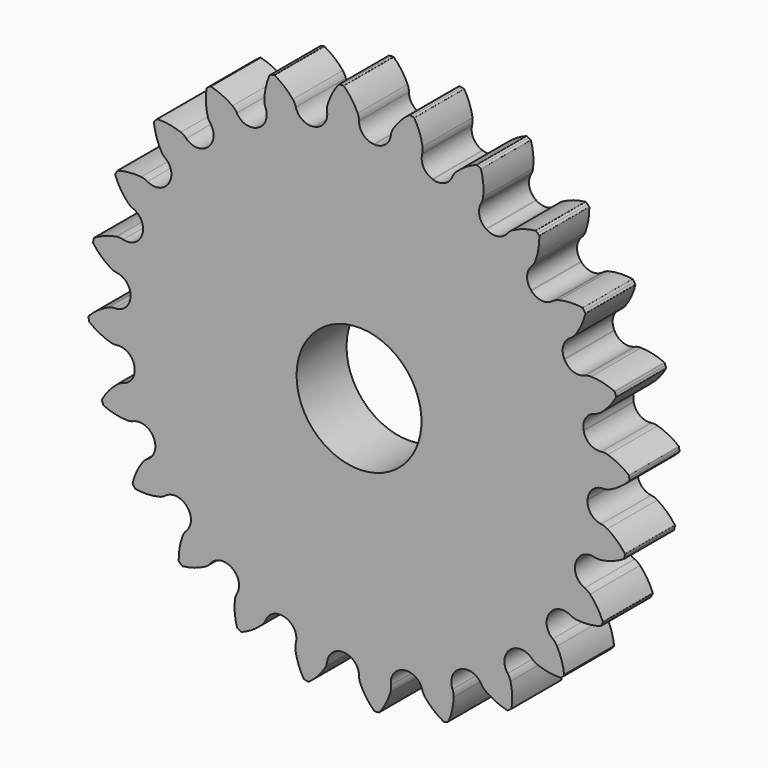
from build123d import *

# Parameters (mm, degrees)
F0_R      = 23.283333
F1_DEPTH  = 3.175
F1_FACE_R = 23.283333
F2_DEPTH  = 3.175
F4_DEPTH  = 6.35
F5_D      = 12.7


with BuildPart() as f1:
    # F0 (on Front) → F1 (new body)
    with BuildSketch(Plane.XZ):
        Circle(F0_R)
    extrude(amount=F1_DEPTH)

    # F1_face (on face) → F2 (join)
    with BuildSketch(Plane(origin=(0, 0, 0), x_dir=(1, 0, 0), z_dir=(0, 1, 0))):
        Circle(F1_FACE_R)
    extrude(amount=F2_DEPTH)

    # F3 (on face) → F4 (join)
    with BuildSketch(Plane.XZ.offset(3.175)):
        with BuildLine():
            ThreePointArc((0, 24.830274), (-0.035443, 25.163855), (-0.140191, 25.482541))
            ThreePointArc((-0.140191, 25.482541), (-0.740387, 26.533576), (-1.529099, 27.45164))
            ThreePointArc((-1.529099, 27.45164), (-1.553441, 27.467387), (-1.581903, 27.472902))
            Line((-1.581903, 27.472902), (-1.800669, 27.472902))
            Line((-1.800669, 27.472902), (-2.014987, 27.444686))
            ThreePointArc((-2.014987, 27.444686), (-2.044829, 27.434717), (-2.068782, 27.414319))
            ThreePointArc((-2.068782, 27.414319), (-2.729885, 26.402052), (-3.187148, 25.282833))
            ThreePointArc((-3.187148, 25.282833), (-3.249402, 24.953201), (-3.241001, 24.617848))
            Line((-3.241001, 24.617848), (-3.239675, 24.607777))
            ThreePointArc((-3.239675, 24.607777), (-3.523929, 23.474867), (-4.506343, 22.843084))
            ThreePointArc((-4.506343, 22.843084), (-3.861541, 22.960882), (-3.213679, 23.060483))
            ThreePointArc((-3.213679, 23.060483), (-0.868194, 23.267141), (1.48617, 23.235854))
            ThreePointArc((1.48617, 23.235854), (0.429697, 23.734001), (0, 24.820117))
            Line((0, 24.820117), (0, 24.830274))
        make_face()
        with BuildLine():
            ThreePointArc((1.559432, 23.231052), (1.522803, 23.233482), (1.48617, 23.235854))
            ThreePointArc((1.48617, 23.235854), (-0.868194, 23.267141), (-3.213679, 23.060483))
            ThreePointArc((-3.213679, 23.060483), (-3.861541, 22.960882), (-4.506343, 22.843084))
            ThreePointArc((-4.506343, 22.843084), (-4.542353, 22.835951), (-4.578351, 22.828761))
            ThreePointArc((-4.578351, 22.828761), (-6.86059, 22.249627), (-9.072667, 21.442955))
            ThreePointArc((-9.072667, 21.442955), (-9.672676, 21.179069), (-10.265019, 20.898397))
            ThreePointArc((-10.265019, 20.898397), (-10.297955, 20.882187), (-10.330866, 20.865925))
            ThreePointArc((-10.330866, 20.865925), (-12.385448, 19.715838), (-14.313369, 18.364125))
            ThreePointArc((-14.313369, 18.364125), (-14.824634, 17.953937), (-15.32415, 17.529519))
            ThreePointArc((-15.32415, 17.529519), (-15.351768, 17.505337), (-15.379349, 17.481111))
            ThreePointArc((-15.379349, 17.481111), (-17.066259, 15.838448), (-18.578638, 14.03381))
            ThreePointArc((-18.578638, 14.03381), (-18.966317, 13.505274), (-19.338965, 12.966034))
            ThreePointArc((-19.338965, 12.966034), (-19.359384, 12.935527), (-19.379755, 12.904988))
            ThreePointArc((-19.379755, 12.904988), (-20.584032, 10.881693), (-21.577803, 8.747114))
            ThreePointArc((-21.577803, 8.747114), (-21.815478, 8.136248), (-22.035863, 7.518934))
            ThreePointArc((-22.035863, 7.518934), (-22.04769, 7.484182), (-22.059462, 7.449412))
            ThreePointArc((-22.059462, 7.449412), (-22.699037, 5.183369), (-23.106477, 2.864317))
            ThreePointArc((-23.106477, 2.864317), (-23.177949, 2.212751), (-23.231052, 1.559432))
            ThreePointArc((-23.231052, 1.559432), (-23.233482, 1.522803), (-23.235854, 1.48617))
            ThreePointArc((-23.235854, 1.48617), (-23.267141, -0.868194), (-23.060483, -3.213679))
            ThreePointArc((-23.060483, -3.213679), (-22.960882, -3.861541), (-22.843084, -4.506343))
            ThreePointArc((-22.843084, -4.506343), (-22.835951, -4.542353), (-22.828761, -4.578351))
            ThreePointArc((-22.828761, -4.578351), (-22.249627, -6.86059), (-21.442955, -9.072667))
            ThreePointArc((-21.442955, -9.072667), (-21.179069, -9.672676), (-20.898397, -10.265019))
            ThreePointArc((-20.898397, -10.265019), (-20.882187, -10.297955), (-20.865925, -10.330866))
            ThreePointArc((-20.865925, -10.330866), (-19.715838, -12.385448), (-18.364125, -14.313369))
            ThreePointArc((-18.364125, -14.313369), (-17.953937, -14.824634), (-17.529519, -15.32415))
            ThreePointArc((-17.529519, -15.32415), (-17.505337, -15.351768), (-17.481111, -15.379349))
            ThreePointArc((-17.481111, -15.379349), (-15.838448, -17.066259), (-14.03381, -18.578638))
            ThreePointArc((-14.03381, -18.578638), (-13.505274, -18.966317), (-12.966034, -19.338965))
            ThreePointArc((-12.966034, -19.338965), (-12.935527, -19.359384), (-12.904988, -19.379755))
            ThreePointArc((-12.904988, -19.379755), (-10.881693, -20.584032), (-8.747114, -21.577803))
            ThreePointArc((-8.747114, -21.577803), (-8.136248, -21.815478), (-7.518934, -22.035863))
            ThreePointArc((-7.518934, -22.035863), (-7.484182, -22.04769), (-7.449412, -22.059462))
            ThreePointArc((-7.449412, -22.059462), (-5.183369, -22.699037), (-2.864317, -23.106477))
            ThreePointArc((-2.864317, -23.106477), (-2.212751, -23.177949), (-1.559432, -23.231052))
            ThreePointArc((-1.559432, -23.231052), (-1.522803, -23.233482), (-1.48617, -23.235854))
            ThreePointArc((-1.48617, -23.235854), (0.868194, -23.267141), (3.213679, -23.060483))
            ThreePointArc((3.213679, -23.060483), (3.861541, -22.960882), (4.506343, -22.843084))
            ThreePointArc((4.506343, -22.843084), (4.542353, -22.835951), (4.578351, -22.828761))
            ThreePointArc((4.578351, -22.828761), (6.86059, -22.249627), (9.072667, -21.442955))
            ThreePointArc((9.072667, -21.442955), (9.672676, -21.179069), (10.265019, -20.898397))
            ThreePointArc((10.265019, -20.898397), (10.297955, -20.882187), (10.330866, -20.865925))
            ThreePointArc((10.330866, -20.865925), (12.385448, -19.715838), (14.313369, -18.364125))
            ThreePointArc((14.313369, -18.364125), (14.824634, -17.953937), (15.32415, -17.529519))
            ThreePointArc((15.32415, -17.529519), (15.351768, -17.505337), (15.379349, -17.481111))
            ThreePointArc((15.379349, -17.481111), (17.066259, -15.838448), (18.578638, -14.03381))
            ThreePointArc((18.578638, -14.03381), (18.966317, -13.505274), (19.338965, -12.966034))
            ThreePointArc((19.338965, -12.966034), (19.359384, -12.935527), (19.379755, -12.904988))
            ThreePointArc((19.379755, -12.904988), (20.584032, -10.881693), (21.577803, -8.747114))
            ThreePointArc((21.577803, -8.747114), (21.815478, -8.136248), (22.035863, -7.518934))
            ThreePointArc((22.035863, -7.518934), (22.04769, -7.484182), (22.059462, -7.449412))
            ThreePointArc((22.059462, -7.449412), (22.699037, -5.183369), (23.106477, -2.864317))
            ThreePointArc((23.106477, -2.864317), (23.177949, -2.212751), (23.231052, -1.559432))
            ThreePointArc((23.231052, -1.559432), (23.233482, -1.522803), (23.235854, -1.48617))
            ThreePointArc((23.235854, -1.48617), (23.27146, -0.743464), (23.283333, 0))
            ThreePointArc((23.283333, 0), (23.227554, 1.610698), (23.060483, 3.213679))
            ThreePointArc((23.060483, 3.213679), (22.960882, 3.861541), (22.843084, 4.506343))
            ThreePointArc((22.843084, 4.506343), (22.835951, 4.542353), (22.828761, 4.578351))
            ThreePointArc((22.828761, 4.578351), (22.249627, 6.86059), (21.442955, 9.072667))
            ThreePointArc((21.442955, 9.072667), (21.179069, 9.672676), (20.898397, 10.265019))
            ThreePointArc((20.898397, 10.265019), (20.882187, 10.297955), (20.865925, 10.330866))
            ThreePointArc((20.865925, 10.330866), (19.715838, 12.385448), (18.364125, 14.313369))
            ThreePointArc((18.364125, 14.313369), (17.953937, 14.824634), (17.529519, 15.32415))
            ThreePointArc((17.529519, 15.32415), (17.505337, 15.351768), (17.481111, 15.379349))
            ThreePointArc((17.481111, 15.379349), (15.838448, 17.066259), (14.03381, 18.578638))
            ThreePointArc((14.03381, 18.578638), (13.505274, 18.966317), (12.966034, 19.338965))
            ThreePointArc((12.966034, 19.338965), (12.935527, 19.359384), (12.904988, 19.379755))
            ThreePointArc((12.904988, 19.379755), (10.881693, 20.584032), (8.747114, 21.577803))
            ThreePointArc((8.747114, 21.577803), (8.136248, 21.815478), (7.518934, 22.035863))
            ThreePointArc((7.518934, 22.035863), (7.484182, 22.04769), (7.449412, 22.059462))
            ThreePointArc((7.449412, 22.059462), (5.183369, 22.699037), (2.864317, 23.106477))
            ThreePointArc((2.864317, 23.106477), (2.212751, 23.177949), (1.559432, 23.231052))
        make_face()
        with BuildLine():
            ThreePointArc((3.239675, 24.607777), (2.671888, 23.58704), (1.559432, 23.231052))
            ThreePointArc((1.559432, 23.231052), (2.212751, 23.177949), (2.864317, 23.106477))
            ThreePointArc((2.864317, 23.106477), (5.183369, 22.699037), (7.449412, 22.059462))
            ThreePointArc((7.449412, 22.059462), (6.557867, 22.814071), (6.423919, 23.974392))
            Line((6.423919, 23.974392), (6.426548, 23.984203))
            ThreePointArc((6.426548, 23.984203), (6.478649, 24.315591), (6.459953, 24.650529))
            ThreePointArc((6.459953, 24.650529), (6.152236, 25.821092), (5.62801, 26.912008))
            ThreePointArc((5.62801, 26.912008), (5.608574, 26.933518), (5.582509, 26.946212))
            Line((5.582509, 26.946212), (5.371197, 27.002833))
            Line((5.371197, 27.002833), (5.156879, 27.031048))
            ThreePointArc((5.156879, 27.031048), (5.125475, 27.029143), (5.097058, 27.015639))
            ThreePointArc((5.097058, 27.015639), (4.196487, 26.208971), (3.465131, 25.246236))
            ThreePointArc((3.465131, 25.246236), (3.319682, 24.943949), (3.241001, 24.617848))
            Line((3.241001, 24.617848), (3.239675, 24.607777))
        make_face()
        with BuildLine():
            ThreePointArc((-9.072667, 21.442955), (-6.86059, 22.249627), (-4.578351, 22.828761))
            ThreePointArc((-4.578351, 22.828761), (-5.727756, 23.036498), (-6.423919, 23.974392))
            Line((-6.423919, 23.974392), (-6.426548, 23.984203))
            ThreePointArc((-6.426548, 23.984203), (-6.547121, 24.297244), (-6.730781, 24.577961))
            ThreePointArc((-6.730781, 24.577961), (-7.582553, 25.43784), (-8.582004, 26.120488))
            ThreePointArc((-8.582004, 26.120488), (-8.609592, 26.129398), (-8.638512, 26.127358))
            Line((-8.638512, 26.127358), (-8.849823, 26.070738))
            Line((-8.849823, 26.070738), (-9.049536, 25.988014))
            ThreePointArc((-9.049536, 25.988014), (-9.07578, 25.970662), (-9.093638, 25.944759))
            ThreePointArc((-9.093638, 25.944759), (-9.470221, 24.795878), (-9.622227, 23.596447))
            ThreePointArc((-9.622227, 23.596447), (-9.597045, 23.261935), (-9.502135, 22.940182))
            Line((-9.502135, 22.940182), (-9.498247, 22.930798))
            ThreePointArc((-9.498247, 22.930798), (-9.479597, 21.76292), (-10.265019, 20.898397))
            ThreePointArc((-10.265019, 20.898397), (-9.672676, 21.179069), (-9.072667, 21.442955))
        make_face()
        with BuildLine():
            ThreePointArc((9.498247, 22.930798), (8.685621, 22.091795), (7.518934, 22.035863))
            ThreePointArc((7.518934, 22.035863), (8.136248, 21.815478), (8.747114, 21.577803))
            ThreePointArc((8.747114, 21.577803), (10.881693, 20.584032), (12.904988, 19.379755))
            ThreePointArc((12.904988, 19.379755), (12.239129, 20.339399), (12.410058, 21.494852))
            Line((12.410058, 21.494852), (12.415137, 21.503648))
            ThreePointArc((12.415137, 21.503648), (12.551233, 21.81026), (12.619862, 22.138623))
            ThreePointArc((12.619862, 22.138623), (12.625594, 23.348944), (12.401581, 24.538367))
            ThreePointArc((12.401581, 24.538367), (12.388373, 24.564175), (12.366482, 24.583182))
            Line((12.366482, 24.583182), (12.177026, 24.692565))
            Line((12.177026, 24.692565), (11.977313, 24.775289))
            ThreePointArc((11.977313, 24.775289), (11.946485, 24.781577), (11.915541, 24.775888))
            ThreePointArc((11.915541, 24.775888), (10.836876, 24.229791), (9.881266, 23.48915))
            ThreePointArc((9.881266, 23.48915), (9.662536, 23.234807), (9.502135, 22.940182))
            Line((9.502135, 22.940182), (9.498247, 22.930798))
        make_face()
        with BuildLine():
            ThreePointArc((-14.313369, 18.364125), (-12.385448, 19.715838), (-10.330866, 20.865925))
            ThreePointArc((-10.330866, 20.865925), (-11.494872, 20.769096), (-12.410058, 21.494852))
            Line((-12.410058, 21.494852), (-12.415137, 21.503648))
            ThreePointArc((-12.415137, 21.503648), (-12.612623, 21.774816), (-12.862679, 21.998433))
            ThreePointArc((-12.862679, 21.998433), (-13.907982, 22.608557), (-15.050059, 23.009268))
            ThreePointArc((-15.050059, 23.009268), (-15.079013, 23.010734), (-15.106419, 23.001279))
            Line((-15.106419, 23.001279), (-15.295876, 22.891896))
            Line((-15.295876, 22.891896), (-15.467373, 22.760302))
            ThreePointArc((-15.467373, 22.760302), (-15.488232, 22.736748), (-15.498778, 22.707106))
            ThreePointArc((-15.498778, 22.707106), (-15.565176, 21.499906), (-15.401567, 20.302002))
            ThreePointArc((-15.401567, 20.302002), (-15.290665, 19.985405), (-15.115713, 19.699181))
            Line((-15.115713, 19.699181), (-15.10953, 19.691123))
            ThreePointArc((-15.10953, 19.691123), (-14.789246, 18.567866), (-15.32415, 17.529519))
            ThreePointArc((-15.32415, 17.529519), (-14.824634, 17.953937), (-14.313369, 18.364125))
        make_face()
        with BuildLine():
            ThreePointArc((15.10953, 19.691123), (14.107443, 19.091032), (12.966034, 19.338965))
            ThreePointArc((12.966034, 19.338965), (13.505274, 18.966317), (14.03381, 18.578638))
            ThreePointArc((14.03381, 18.578638), (15.838448, 17.066259), (17.481111, 15.379349))
            ThreePointArc((17.481111, 15.379349), (17.086314, 16.478632), (17.550473, 17.550473))
            Line((17.550473, 17.550473), (17.557655, 17.557655))
            ThreePointArc((17.557655, 17.557655), (17.768471, 17.818595), (17.919748, 18.118008))
            ThreePointArc((17.919748, 18.118008), (18.238539, 19.285604), (18.330004, 20.492477))
            ThreePointArc((18.330004, 20.492477), (18.323926, 20.520824), (18.3077, 20.54485))
            Line((18.3077, 20.54485), (18.15301, 20.69954))
            Line((18.15301, 20.69954), (17.981512, 20.831135))
            ThreePointArc((17.981512, 20.831135), (17.953363, 20.845187), (17.922001, 20.847701))
            ThreePointArc((17.922001, 20.847701), (16.73875, 20.599391), (15.624009, 20.131316))
            ThreePointArc((15.624009, 20.131316), (15.346904, 19.942252), (15.115713, 19.699181))
            Line((15.115713, 19.699181), (15.10953, 19.691123))
        make_face()
        with BuildLine():
            ThreePointArc((-18.578638, 14.03381), (-17.066259, 15.838448), (-15.379349, 17.481111))
            ThreePointArc((-15.379349, 17.481111), (-16.478632, 17.086314), (-17.550473, 17.550473))
            Line((-17.550473, 17.550473), (-17.557655, 17.557655))
            ThreePointArc((-17.557655, 17.557655), (-17.818595, 17.768471), (-18.118008, 17.919748))
            ThreePointArc((-18.118008, 17.919748), (-19.285604, 18.238539), (-20.492477, 18.330004))
            ThreePointArc((-20.492477, 18.330004), (-20.520824, 18.323926), (-20.54485, 18.3077))
            Line((-20.54485, 18.3077), (-20.69954, 18.15301))
            Line((-20.69954, 18.15301), (-20.831135, 17.981512))
            ThreePointArc((-20.831135, 17.981512), (-20.845187, 17.953363), (-20.847701, 17.922001))
            ThreePointArc((-20.847701, 17.922001), (-20.599391, 16.73875), (-20.131316, 15.624009))
            ThreePointArc((-20.131316, 15.624009), (-19.942252, 15.346904), (-19.699181, 15.115713))
            Line((-19.699181, 15.115713), (-19.691123, 15.10953))
            ThreePointArc((-19.691123, 15.10953), (-19.091032, 14.107443), (-19.338965, 12.966034))
            ThreePointArc((-19.338965, 12.966034), (-18.966317, 13.505274), (-18.578638, 14.03381))
        make_face()
        with BuildLine():
            ThreePointArc((19.691123, 15.10953), (18.567866, 14.789246), (17.529519, 15.32415))
            ThreePointArc((17.529519, 15.32415), (17.953937, 14.824634), (18.364125, 14.313369))
            ThreePointArc((18.364125, 14.313369), (19.715838, 12.385448), (20.865925, 10.330866))
            ThreePointArc((20.865925, 10.330866), (20.769096, 11.494872), (21.494852, 12.410058))
            Line((21.494852, 12.410058), (21.503648, 12.415137))
            ThreePointArc((21.503648, 12.415137), (21.774816, 12.612623), (21.998433, 12.862679))
            ThreePointArc((21.998433, 12.862679), (22.608557, 13.907982), (23.009268, 15.050059))
            ThreePointArc((23.009268, 15.050059), (23.010734, 15.079013), (23.001279, 15.106419))
            Line((23.001279, 15.106419), (22.891896, 15.295876))
            Line((22.891896, 15.295876), (22.760302, 15.467373))
            ThreePointArc((22.760302, 15.467373), (22.736748, 15.488232), (22.707106, 15.498778))
            ThreePointArc((22.707106, 15.498778), (21.499906, 15.565176), (20.302002, 15.401567))
            ThreePointArc((20.302002, 15.401567), (19.985405, 15.290665), (19.699181, 15.115713))
            Line((19.699181, 15.115713), (19.691123, 15.10953))
        make_face()
        with BuildLine():
            ThreePointArc((-21.577803, 8.747114), (-20.584032, 10.881693), (-19.379755, 12.904988))
            ThreePointArc((-19.379755, 12.904988), (-20.339399, 12.239129), (-21.494852, 12.410058))
            Line((-21.494852, 12.410058), (-21.503648, 12.415137))
            ThreePointArc((-21.503648, 12.415137), (-21.81026, 12.551233), (-22.138623, 12.619862))
            ThreePointArc((-22.138623, 12.619862), (-23.348944, 12.625594), (-24.538367, 12.401581))
            ThreePointArc((-24.538367, 12.401581), (-24.564175, 12.388373), (-24.583182, 12.366482))
            Line((-24.583182, 12.366482), (-24.692565, 12.177026))
            Line((-24.692565, 12.177026), (-24.775289, 11.977313))
            ThreePointArc((-24.775289, 11.977313), (-24.781577, 11.946485), (-24.775888, 11.915541))
            ThreePointArc((-24.775888, 11.915541), (-24.229791, 10.836876), (-23.48915, 9.881266))
            ThreePointArc((-23.48915, 9.881266), (-23.234807, 9.662536), (-22.940182, 9.502135))
            Line((-22.940182, 9.502135), (-22.930798, 9.498247))
            ThreePointArc((-22.930798, 9.498247), (-22.091795, 8.685621), (-22.035863, 7.518934))
            ThreePointArc((-22.035863, 7.518934), (-21.815478, 8.136248), (-21.577803, 8.747114))
        make_face()
        with BuildLine():
            ThreePointArc((22.930798, 9.498247), (21.76292, 9.479597), (20.898397, 10.265019))
            ThreePointArc((20.898397, 10.265019), (21.179069, 9.672676), (21.442955, 9.072667))
            ThreePointArc((21.442955, 9.072667), (22.249627, 6.86059), (22.828761, 4.578351))
            ThreePointArc((22.828761, 4.578351), (23.036498, 5.727756), (23.974392, 6.423919))
            Line((23.974392, 6.423919), (23.984203, 6.426548))
            ThreePointArc((23.984203, 6.426548), (24.297244, 6.547121), (24.577961, 6.730781))
            ThreePointArc((24.577961, 6.730781), (25.43784, 7.582553), (26.120488, 8.582004))
            ThreePointArc((26.120488, 8.582004), (26.129398, 8.609592), (26.127358, 8.638512))
            Line((26.127358, 8.638512), (26.070738, 8.849823))
            Line((26.070738, 8.849823), (25.988014, 9.049536))
            ThreePointArc((25.988014, 9.049536), (25.970662, 9.07578), (25.944759, 9.093638))
            ThreePointArc((25.944759, 9.093638), (24.795878, 9.470221), (23.596447, 9.622227))
            ThreePointArc((23.596447, 9.622227), (23.261935, 9.597045), (22.940182, 9.502135))
            Line((22.940182, 9.502135), (22.930798, 9.498247))
        make_face()
        with BuildLine():
            ThreePointArc((-23.106477, 2.864317), (-22.699037, 5.183369), (-22.059462, 7.449412))
            ThreePointArc((-22.059462, 7.449412), (-22.814071, 6.557867), (-23.974392, 6.423919))
            Line((-23.974392, 6.423919), (-23.984203, 6.426548))
            ThreePointArc((-23.984203, 6.426548), (-24.315591, 6.478649), (-24.650529, 6.459953))
            ThreePointArc((-24.650529, 6.459953), (-25.821092, 6.152236), (-26.912008, 5.62801))
            ThreePointArc((-26.912008, 5.62801), (-26.933518, 5.608574), (-26.946212, 5.582509))
            Line((-26.946212, 5.582509), (-27.002833, 5.371197))
            Line((-27.002833, 5.371197), (-27.031048, 5.156879))
            ThreePointArc((-27.031048, 5.156879), (-27.029143, 5.125475), (-27.015639, 5.097058))
            ThreePointArc((-27.015639, 5.097058), (-26.208971, 4.196487), (-25.246236, 3.465131))
            ThreePointArc((-25.246236, 3.465131), (-24.943949, 3.319682), (-24.617848, 3.241001))
            Line((-24.617848, 3.241001), (-24.607777, 3.239675))
            ThreePointArc((-24.607777, 3.239675), (-23.58704, 2.671888), (-23.231052, 1.559432))
            ThreePointArc((-23.231052, 1.559432), (-23.177949, 2.212751), (-23.106477, 2.864317))
        make_face()
        with BuildLine():
            ThreePointArc((24.607777, 3.239675), (23.474867, 3.523929), (22.843084, 4.506343))
            ThreePointArc((22.843084, 4.506343), (22.960882, 3.861541), (23.060483, 3.213679))
            ThreePointArc((23.060483, 3.213679), (23.227554, 1.610698), (23.283333, 0))
            ThreePointArc((23.283333, 0), (23.27146, -0.743464), (23.235854, -1.48617))
            ThreePointArc((23.235854, -1.48617), (23.734001, -0.429697), (24.820117, 0))
            Line((24.820117, 0), (24.830274, 0))
            ThreePointArc((24.830274, 0), (25.163855, 0.035443), (25.482541, 0.140191))
            ThreePointArc((25.482541, 0.140191), (26.533576, 0.740387), (27.45164, 1.529099))
            ThreePointArc((27.45164, 1.529099), (27.467387, 1.553441), (27.472902, 1.581903))
            Line((27.472902, 1.581903), (27.472902, 1.800669))
            Line((27.472902, 1.800669), (27.444686, 2.014987))
            ThreePointArc((27.444686, 2.014987), (27.434717, 2.044829), (27.414319, 2.068782))
            ThreePointArc((27.414319, 2.068782), (26.402052, 2.729885), (25.282833, 3.187148))
            ThreePointArc((25.282833, 3.187148), (24.953201, 3.249402), (24.617848, 3.241001))
            Line((24.617848, 3.241001), (24.607777, 3.239675))
        make_face()
        with BuildLine():
            ThreePointArc((-23.060483, -3.213679), (-23.267141, -0.868194), (-23.235854, 1.48617))
            ThreePointArc((-23.235854, 1.48617), (-23.734001, 0.429697), (-24.820117, 0))
            Line((-24.820117, 0), (-24.830274, 0))
            ThreePointArc((-24.830274, 0), (-25.163855, -0.035443), (-25.482541, -0.140191))
            ThreePointArc((-25.482541, -0.140191), (-26.533576, -0.740387), (-27.45164, -1.529099))
            ThreePointArc((-27.45164, -1.529099), (-27.467387, -1.553441), (-27.472902, -1.581903))
            Line((-27.472902, -1.581903), (-27.472902, -1.800669))
            Line((-27.472902, -1.800669), (-27.444686, -2.014987))
            ThreePointArc((-27.444686, -2.014987), (-27.434717, -2.044829), (-27.414319, -2.068782))
            ThreePointArc((-27.414319, -2.068782), (-26.402052, -2.729885), (-25.282833, -3.187148))
            ThreePointArc((-25.282833, -3.187148), (-24.953201, -3.249402), (-24.617848, -3.241001))
            Line((-24.617848, -3.241001), (-24.607777, -3.239675))
            ThreePointArc((-24.607777, -3.239675), (-23.474867, -3.523929), (-22.843084, -4.506343))
            ThreePointArc((-22.843084, -4.506343), (-22.960882, -3.861541), (-23.060483, -3.213679))
        make_face()
        with BuildLine():
            ThreePointArc((24.607777, -3.239675), (23.58704, -2.671888), (23.231052, -1.559432))
            ThreePointArc((23.231052, -1.559432), (23.177949, -2.212751), (23.106477, -2.864317))
            ThreePointArc((23.106477, -2.864317), (22.699037, -5.183369), (22.059462, -7.449412))
            ThreePointArc((22.059462, -7.449412), (22.814071, -6.557867), (23.974392, -6.423919))
            Line((23.974392, -6.423919), (23.984203, -6.426548))
            ThreePointArc((23.984203, -6.426548), (24.315591, -6.478649), (24.650529, -6.459953))
            ThreePointArc((24.650529, -6.459953), (25.821092, -6.152236), (26.912008, -5.62801))
            ThreePointArc((26.912008, -5.62801), (26.933518, -5.608574), (26.946212, -5.582509))
            Line((26.946212, -5.582509), (27.002833, -5.371197))
            Line((27.002833, -5.371197), (27.031048, -5.156879))
            ThreePointArc((27.031048, -5.156879), (27.029143, -5.125475), (27.015639, -5.097058))
            ThreePointArc((27.015639, -5.097058), (26.208971, -4.196487), (25.246236, -3.465131))
            ThreePointArc((25.246236, -3.465131), (24.943949, -3.319682), (24.617848, -3.241001))
            Line((24.617848, -3.241001), (24.607777, -3.239675))
        make_face()
        with BuildLine():
            ThreePointArc((-21.442955, -9.072667), (-22.249627, -6.86059), (-22.828761, -4.578351))
            ThreePointArc((-22.828761, -4.578351), (-23.036498, -5.727756), (-23.974392, -6.423919))
            Line((-23.974392, -6.423919), (-23.984203, -6.426548))
            ThreePointArc((-23.984203, -6.426548), (-24.297244, -6.547121), (-24.577961, -6.730781))
            ThreePointArc((-24.577961, -6.730781), (-25.43784, -7.582553), (-26.120488, -8.582004))
            ThreePointArc((-26.120488, -8.582004), (-26.129398, -8.609592), (-26.127358, -8.638512))
            Line((-26.127358, -8.638512), (-26.070738, -8.849823))
            Line((-26.070738, -8.849823), (-25.988014, -9.049536))
            ThreePointArc((-25.988014, -9.049536), (-25.970662, -9.07578), (-25.944759, -9.093638))
            ThreePointArc((-25.944759, -9.093638), (-24.795878, -9.470221), (-23.596447, -9.622227))
            ThreePointArc((-23.596447, -9.622227), (-23.261935, -9.597045), (-22.940182, -9.502135))
            Line((-22.940182, -9.502135), (-22.930798, -9.498247))
            ThreePointArc((-22.930798, -9.498247), (-21.76292, -9.479597), (-20.898397, -10.265019))
            ThreePointArc((-20.898397, -10.265019), (-21.179069, -9.672676), (-21.442955, -9.072667))
        make_face()
        with BuildLine():
            ThreePointArc((22.930798, -9.498247), (22.091795, -8.685621), (22.035863, -7.518934))
            ThreePointArc((22.035863, -7.518934), (21.815478, -8.136248), (21.577803, -8.747114))
            ThreePointArc((21.577803, -8.747114), (20.584032, -10.881693), (19.379755, -12.904988))
            ThreePointArc((19.379755, -12.904988), (20.339399, -12.239129), (21.494852, -12.410058))
            Line((21.494852, -12.410058), (21.503648, -12.415137))
            ThreePointArc((21.503648, -12.415137), (21.81026, -12.551233), (22.138623, -12.619862))
            ThreePointArc((22.138623, -12.619862), (23.348944, -12.625594), (24.538367, -12.401581))
            ThreePointArc((24.538367, -12.401581), (24.564175, -12.388373), (24.583182, -12.366482))
            Line((24.583182, -12.366482), (24.692565, -12.177026))
            Line((24.692565, -12.177026), (24.775289, -11.977313))
            ThreePointArc((24.775289, -11.977313), (24.781577, -11.946485), (24.775888, -11.915541))
            ThreePointArc((24.775888, -11.915541), (24.229791, -10.836876), (23.48915, -9.881266))
            ThreePointArc((23.48915, -9.881266), (23.234807, -9.662536), (22.940182, -9.502135))
            Line((22.940182, -9.502135), (22.930798, -9.498247))
        make_face()
        with BuildLine():
            ThreePointArc((-18.364125, -14.313369), (-19.715838, -12.385448), (-20.865925, -10.330866))
            ThreePointArc((-20.865925, -10.330866), (-20.769096, -11.494872), (-21.494852, -12.410058))
            Line((-21.494852, -12.410058), (-21.503648, -12.415137))
            ThreePointArc((-21.503648, -12.415137), (-21.774816, -12.612623), (-21.998433, -12.862679))
            ThreePointArc((-21.998433, -12.862679), (-22.608557, -13.907982), (-23.009268, -15.050059))
            ThreePointArc((-23.009268, -15.050059), (-23.010734, -15.079013), (-23.001279, -15.106419))
            Line((-23.001279, -15.106419), (-22.891896, -15.295876))
            Line((-22.891896, -15.295876), (-22.760302, -15.467373))
            ThreePointArc((-22.760302, -15.467373), (-22.736748, -15.488232), (-22.707106, -15.498778))
            ThreePointArc((-22.707106, -15.498778), (-21.499906, -15.565176), (-20.302002, -15.401567))
            ThreePointArc((-20.302002, -15.401567), (-19.985405, -15.290665), (-19.699181, -15.115713))
            Line((-19.699181, -15.115713), (-19.691123, -15.10953))
            ThreePointArc((-19.691123, -15.10953), (-18.567866, -14.789246), (-17.529519, -15.32415))
            ThreePointArc((-17.529519, -15.32415), (-17.953937, -14.824634), (-18.364125, -14.313369))
        make_face()
        with BuildLine():
            ThreePointArc((19.691123, -15.10953), (19.091032, -14.107443), (19.338965, -12.966034))
            ThreePointArc((19.338965, -12.966034), (18.966317, -13.505274), (18.578638, -14.03381))
            ThreePointArc((18.578638, -14.03381), (17.066259, -15.838448), (15.379349, -17.481111))
            ThreePointArc((15.379349, -17.481111), (16.478632, -17.086314), (17.550473, -17.550473))
            Line((17.550473, -17.550473), (17.557655, -17.557655))
            ThreePointArc((17.557655, -17.557655), (17.818595, -17.768471), (18.118008, -17.919748))
            ThreePointArc((18.118008, -17.919748), (19.285604, -18.238539), (20.492477, -18.330004))
            ThreePointArc((20.492477, -18.330004), (20.520824, -18.323926), (20.54485, -18.3077))
            Line((20.54485, -18.3077), (20.69954, -18.15301))
            Line((20.69954, -18.15301), (20.831135, -17.981512))
            ThreePointArc((20.831135, -17.981512), (20.845187, -17.953363), (20.847701, -17.922001))
            ThreePointArc((20.847701, -17.922001), (20.599391, -16.73875), (20.131316, -15.624009))
            ThreePointArc((20.131316, -15.624009), (19.942252, -15.346904), (19.699181, -15.115713))
            Line((19.699181, -15.115713), (19.691123, -15.10953))
        make_face()
        with BuildLine():
            ThreePointArc((-14.03381, -18.578638), (-15.838448, -17.066259), (-17.481111, -15.379349))
            ThreePointArc((-17.481111, -15.379349), (-17.086314, -16.478632), (-17.550473, -17.550473))
            Line((-17.550473, -17.550473), (-17.557655, -17.557655))
            ThreePointArc((-17.557655, -17.557655), (-17.768471, -17.818595), (-17.919748, -18.118008))
            ThreePointArc((-17.919748, -18.118008), (-18.238539, -19.285604), (-18.330004, -20.492477))
            ThreePointArc((-18.330004, -20.492477), (-18.323926, -20.520824), (-18.3077, -20.54485))
            Line((-18.3077, -20.54485), (-18.15301, -20.69954))
            Line((-18.15301, -20.69954), (-17.981512, -20.831135))
            ThreePointArc((-17.981512, -20.831135), (-17.953363, -20.845187), (-17.922001, -20.847701))
            ThreePointArc((-17.922001, -20.847701), (-16.73875, -20.599391), (-15.624009, -20.131316))
            ThreePointArc((-15.624009, -20.131316), (-15.346904, -19.942252), (-15.115713, -19.699181))
            Line((-15.115713, -19.699181), (-15.10953, -19.691123))
            ThreePointArc((-15.10953, -19.691123), (-14.107443, -19.091032), (-12.966034, -19.338965))
            ThreePointArc((-12.966034, -19.338965), (-13.505274, -18.966317), (-14.03381, -18.578638))
        make_face()
        with BuildLine():
            ThreePointArc((15.10953, -19.691123), (14.789246, -18.567866), (15.32415, -17.529519))
            ThreePointArc((15.32415, -17.529519), (14.824634, -17.953937), (14.313369, -18.364125))
            ThreePointArc((14.313369, -18.364125), (12.385448, -19.715838), (10.330866, -20.865925))
            ThreePointArc((10.330866, -20.865925), (11.494872, -20.769096), (12.410058, -21.494852))
            Line((12.410058, -21.494852), (12.415137, -21.503648))
            ThreePointArc((12.415137, -21.503648), (12.612623, -21.774816), (12.862679, -21.998433))
            ThreePointArc((12.862679, -21.998433), (13.907982, -22.608557), (15.050059, -23.009268))
            ThreePointArc((15.050059, -23.009268), (15.079013, -23.010734), (15.106419, -23.001279))
            Line((15.106419, -23.001279), (15.295876, -22.891896))
            Line((15.295876, -22.891896), (15.467373, -22.760302))
            ThreePointArc((15.467373, -22.760302), (15.488232, -22.736748), (15.498778, -22.707106))
            ThreePointArc((15.498778, -22.707106), (15.565176, -21.499906), (15.401567, -20.302002))
            ThreePointArc((15.401567, -20.302002), (15.290665, -19.985405), (15.115713, -19.699181))
            Line((15.115713, -19.699181), (15.10953, -19.691123))
        make_face()
        with BuildLine():
            ThreePointArc((-8.747114, -21.577803), (-10.881693, -20.584032), (-12.904988, -19.379755))
            ThreePointArc((-12.904988, -19.379755), (-12.239129, -20.339399), (-12.410058, -21.494852))
            Line((-12.410058, -21.494852), (-12.415137, -21.503648))
            ThreePointArc((-12.415137, -21.503648), (-12.551233, -21.81026), (-12.619862, -22.138623))
            ThreePointArc((-12.619862, -22.138623), (-12.625594, -23.348944), (-12.401581, -24.538367))
            ThreePointArc((-12.401581, -24.538367), (-12.388373, -24.564175), (-12.366482, -24.583182))
            Line((-12.366482, -24.583182), (-12.177026, -24.692565))
            Line((-12.177026, -24.692565), (-11.977313, -24.775289))
            ThreePointArc((-11.977313, -24.775289), (-11.946485, -24.781577), (-11.915541, -24.775888))
            ThreePointArc((-11.915541, -24.775888), (-10.836876, -24.229791), (-9.881266, -23.48915))
            ThreePointArc((-9.881266, -23.48915), (-9.662536, -23.234807), (-9.502135, -22.940182))
            Line((-9.502135, -22.940182), (-9.498247, -22.930798))
            ThreePointArc((-9.498247, -22.930798), (-8.685621, -22.091795), (-7.518934, -22.035863))
            ThreePointArc((-7.518934, -22.035863), (-8.136248, -21.815478), (-8.747114, -21.577803))
        make_face()
        with BuildLine():
            ThreePointArc((9.498247, -22.930798), (9.479597, -21.76292), (10.265019, -20.898397))
            ThreePointArc((10.265019, -20.898397), (9.672676, -21.179069), (9.072667, -21.442955))
            ThreePointArc((9.072667, -21.442955), (6.86059, -22.249627), (4.578351, -22.828761))
            ThreePointArc((4.578351, -22.828761), (5.727756, -23.036498), (6.423919, -23.974392))
            Line((6.423919, -23.974392), (6.426548, -23.984203))
            ThreePointArc((6.426548, -23.984203), (6.547121, -24.297244), (6.730781, -24.577961))
            ThreePointArc((6.730781, -24.577961), (7.582553, -25.43784), (8.582004, -26.120488))
            ThreePointArc((8.582004, -26.120488), (8.609592, -26.129398), (8.638512, -26.127358))
            Line((8.638512, -26.127358), (8.849823, -26.070738))
            Line((8.849823, -26.070738), (9.049536, -25.988014))
            ThreePointArc((9.049536, -25.988014), (9.07578, -25.970662), (9.093638, -25.944759))
            ThreePointArc((9.093638, -25.944759), (9.470221, -24.795878), (9.622227, -23.596447))
            ThreePointArc((9.622227, -23.596447), (9.597045, -23.261935), (9.502135, -22.940182))
            Line((9.502135, -22.940182), (9.498247, -22.930798))
        make_face()
        with BuildLine():
            ThreePointArc((-2.864317, -23.106477), (-5.183369, -22.699037), (-7.449412, -22.059462))
            ThreePointArc((-7.449412, -22.059462), (-6.557867, -22.814071), (-6.423919, -23.974392))
            Line((-6.423919, -23.974392), (-6.426548, -23.984203))
            ThreePointArc((-6.426548, -23.984203), (-6.478649, -24.315591), (-6.459953, -24.650529))
            ThreePointArc((-6.459953, -24.650529), (-6.152236, -25.821092), (-5.62801, -26.912008))
            ThreePointArc((-5.62801, -26.912008), (-5.608574, -26.933518), (-5.582509, -26.946212))
            Line((-5.582509, -26.946212), (-5.371197, -27.002833))
            Line((-5.371197, -27.002833), (-5.156879, -27.031048))
            ThreePointArc((-5.156879, -27.031048), (-5.125475, -27.029143), (-5.097058, -27.015639))
            ThreePointArc((-5.097058, -27.015639), (-4.196487, -26.208971), (-3.465131, -25.246236))
            ThreePointArc((-3.465131, -25.246236), (-3.319682, -24.943949), (-3.241001, -24.617848))
            Line((-3.241001, -24.617848), (-3.239675, -24.607777))
            ThreePointArc((-3.239675, -24.607777), (-2.671888, -23.58704), (-1.559432, -23.231052))
            ThreePointArc((-1.559432, -23.231052), (-2.212751, -23.177949), (-2.864317, -23.106477))
        make_face()
        with BuildLine():
            ThreePointArc((3.239675, -24.607777), (3.523929, -23.474867), (4.506343, -22.843084))
            ThreePointArc((4.506343, -22.843084), (3.861541, -22.960882), (3.213679, -23.060483))
            ThreePointArc((3.213679, -23.060483), (0.868194, -23.267141), (-1.48617, -23.235854))
            ThreePointArc((-1.48617, -23.235854), (-0.429697, -23.734001), (0, -24.820117))
            Line((0, -24.820117), (0, -24.830274))
            ThreePointArc((0, -24.830274), (0.035443, -25.163855), (0.140191, -25.482541))
            ThreePointArc((0.140191, -25.482541), (0.740387, -26.533576), (1.529099, -27.45164))
            ThreePointArc((1.529099, -27.45164), (1.553441, -27.467387), (1.581903, -27.472902))
            Line((1.581903, -27.472902), (1.800669, -27.472902))
            Line((1.800669, -27.472902), (2.014987, -27.444686))
            ThreePointArc((2.014987, -27.444686), (2.044829, -27.434717), (2.068782, -27.414319))
            ThreePointArc((2.068782, -27.414319), (2.729885, -26.402052), (3.187148, -25.282833))
            ThreePointArc((3.187148, -25.282833), (3.249402, -24.953201), (3.241001, -24.617848))
            Line((3.241001, -24.617848), (3.239675, -24.607777))
        make_face()
    extrude(amount=-F4_DEPTH)

    # F5 (through all)
    with Locations(Plane.XZ.offset(3.175)):
        with Locations((0, 0)):
            Hole(F5_D / 2)


solid = f1.part
